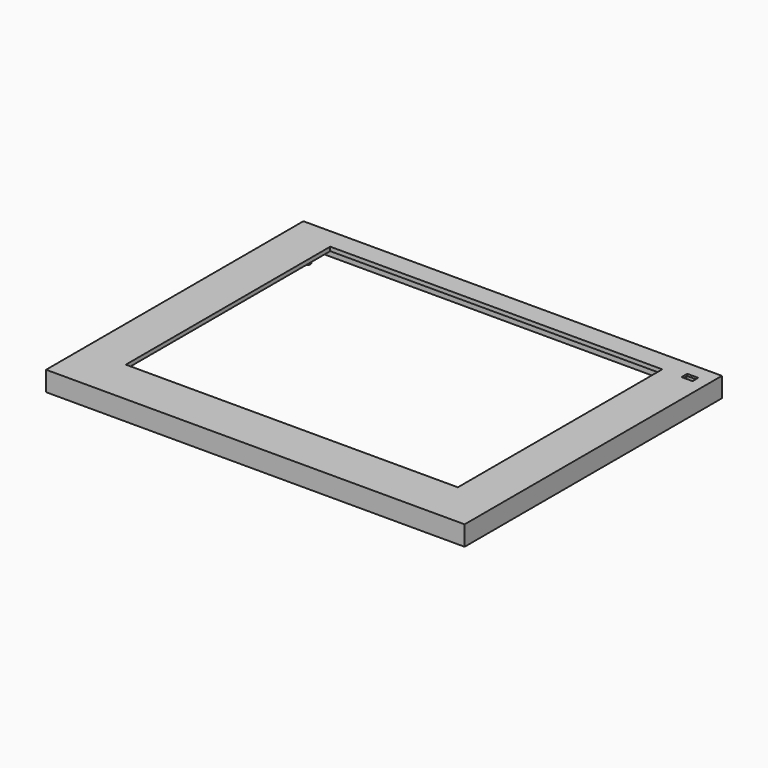
from build123d import *

# Parameters (mm, degrees)
SKETCH_W        = 105.8
SKETCH_H        = 81.3
SKETCH_W_2      = 5
SKETCH_H_2      = 4
PAD_DEPTH       = 1
SKETCH001_W     = 105.8
SKETCH001_H     = 81.3
SKETCH001_W_2   = 83.934342
SKETCH001_H_2   = 64.581907
SKETCH001_W_3   = 2.8
SKETCH001_H_3   = 1.8
PAD001_DEPTH    = 1
SKETCH002_R     = 0.9
PAD002_DEPTH    = 4
SKETCH003_W     = 105.8
SKETCH003_H     = 81.3
SKETCH003_W_2   = 103.8
SKETCH003_H_2   = 79.3
PAD003_DEPTH    = 3
SKETCH014_W     = 5
SKETCH014_H     = 4
POCKET001_DEPTH = 0.5
SKETCH028_W     = 88.334342
SKETCH028_H     = 68.981907
SKETCH028_W_2   = 84.334342
SKETCH028_H_2   = 64.981907
POCKET015_DEPTH = 0.8


with BuildPart() as part:
    # Sketch (on Face286 of Binder) → Pad (new body)
    with BuildSketch(Plane.XY.offset(0.85)):
        Rectangle(SKETCH_W, SKETCH_H)
        Polygon((-45.8999, -39.65), (45.8999, -39.65), (45.8999, 38.9351), (-45.8999, 38.9351), (-45.8999, 10.824213), (-50.377559, 10.824213), (-50.377559, -10.886816), (-45.8999, -10.886816), align=None, mode=Mode.SUBTRACT)
        with Locations((48.4, 36.15)):
            Rectangle(SKETCH_W_2, SKETCH_H_2, mode=Mode.SUBTRACT)
    extrude(amount=PAD_DEPTH)

    # Sketch001 (on Face18 of Pad) → Pad001 (join)
    with BuildSketch(Plane.XY.offset(1.85)):
        Rectangle(SKETCH001_W, SKETCH001_H)
        with Locations((0, 3.16961)):
            Rectangle(SKETCH001_W_2, SKETCH001_H_2, mode=Mode.SUBTRACT)
        with Locations((48.4, 36.15)):
            Rectangle(SKETCH001_W_3, SKETCH001_H_3, mode=Mode.SUBTRACT)
    extrude(amount=PAD001_DEPTH)

    # Sketch002 (on Face1 of Pad001) → Pad002 (join)
    with BuildSketch(Plane(origin=(0, 0, 0.85), x_dir=(1, 0, 0), z_dir=(0, 0, -1))):
        with Locations((-48.4, 36.15)):
            Circle(SKETCH002_R)
        with Locations((48.4, 36.15)):
            Circle(SKETCH002_R)
        with Locations((-48.4, -36.15)):
            Circle(SKETCH002_R)
    extrude(amount=PAD002_DEPTH)

    # Sketch003 (on Face1 of Pad002) → Pad003 (join)
    with BuildSketch(Plane(origin=(0, 0, 0.85), x_dir=(1, 0, 0), z_dir=(0, 0, -1))):
        Rectangle(SKETCH003_W, SKETCH003_H)
        Rectangle(SKETCH003_W_2, SKETCH003_H_2, mode=Mode.SUBTRACT)
    extrude(amount=PAD003_DEPTH)

    # Sketch014 (on Face24 of Pad003) → Pocket001 (cut)
    with BuildSketch(Plane(origin=(0, 0, 1.85), x_dir=(1, 0, 0), z_dir=(0, 0, -1))):
        with Locations((48.4, -36.15)):
            Rectangle(SKETCH014_W, SKETCH014_H)
    extrude(amount=-POCKET001_DEPTH, mode=Mode.SUBTRACT)

    # Sketch028 (on Face19 of Pocket001) → Pocket015 (cut)
    with BuildSketch(Plane(origin=(0, 0, 1.85), x_dir=(1, 0, 0), z_dir=(0, 0, -1))):
        with Locations((0, -3.169609)):
            Rectangle(SKETCH028_W, SKETCH028_H)
        with Locations((0, -3.169609)):
            Rectangle(SKETCH028_W_2, SKETCH028_H_2, mode=Mode.SUBTRACT)
    extrude(amount=-POCKET015_DEPTH, mode=Mode.SUBTRACT)


solid = part.part
